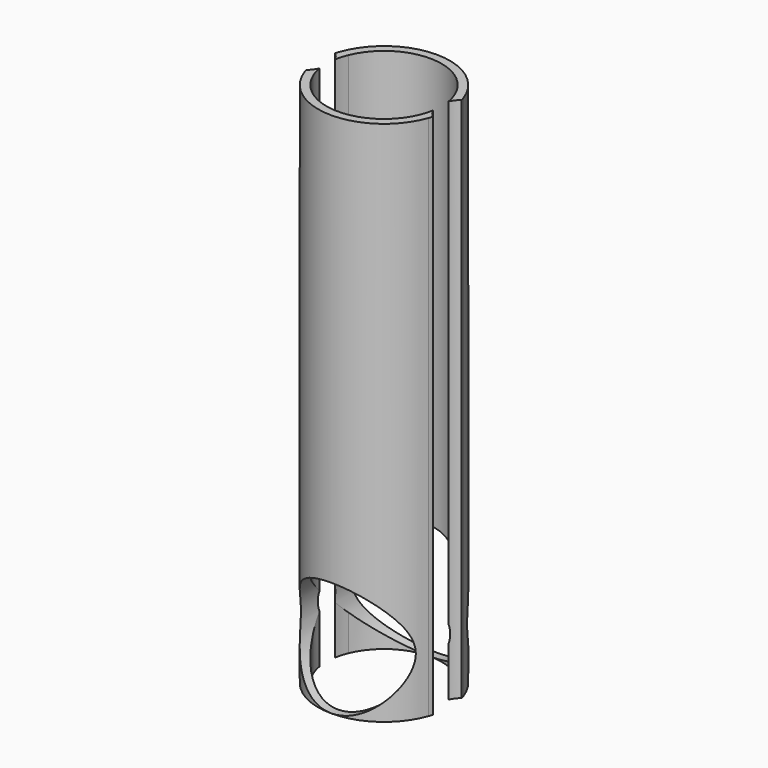
from build123d import *

# Parameters (mm, degrees)
F1_DEPTH = 609.6
F3_R     = 66.548
F4_DEPTH = 154.94
F5_DEPTH = 124.46


with BuildPart() as f1:
    # F0 (on Top) → F1 (new body)
    with BuildSketch(Plane.XY):
        with BuildLine():
            ThreePointArc((61.647349, -25.4), (0, -66.675), (-61.647349, -25.4))
            ThreePointArc((-61.647349, -25.4), (-64.101181, -18.346503), (-65.750812, -11.062835))
            ThreePointArc((-65.750812, -11.062835), (-68.947885, -16.404785), (-73.286413, -20.869634))
            ThreePointArc((-73.286413, -20.869634), (-72.599578, -23.146086), (-71.842049, -25.4))
            ThreePointArc((-71.842049, -25.4), (0, -76.2), (71.842049, -25.4))
            ThreePointArc((71.842049, -25.4), (72.599578, -23.146086), (73.286413, -20.869634))
            ThreePointArc((73.286413, -20.869634), (68.947885, -16.404785), (65.750812, -11.062835))
            ThreePointArc((65.750812, -11.062835), (64.101181, -18.346503), (61.647349, -25.4))
        make_face()
        with BuildLine():
            ThreePointArc((-61.647349, 25.4), (0, 66.675), (61.647349, 25.4))
            ThreePointArc((61.647349, 25.4), (64.101181, 18.346503), (65.750812, 11.062835))
            ThreePointArc((65.750812, 11.062835), (68.947885, 16.404785), (73.286413, 20.869634))
            ThreePointArc((73.286413, 20.869634), (72.599578, 23.146086), (71.842049, 25.4))
            ThreePointArc((71.842049, 25.4), (0, 76.2), (-71.842049, 25.4))
            ThreePointArc((-71.842049, 25.4), (-72.599578, 23.146086), (-73.286413, 20.869634))
            ThreePointArc((-73.286413, 20.869634), (-68.947885, 16.404785), (-65.750812, 11.062835))
            ThreePointArc((-65.750812, 11.062835), (-64.101181, 18.346503), (-61.647349, 25.4))
        make_face()
    extrude(amount=F1_DEPTH)

    # F3 (on Front) → F4 (cut)
    with BuildSketch(Plane.XZ):
        with Locations((0, 66.675)):
            Circle(F3_R)
    extrude(amount=-F4_DEPTH, mode=Mode.SUBTRACT)

    # F3 (on Front) → F5 (cut)
    with BuildSketch(Plane.XZ):
        with Locations((0, 66.675)):
            Circle(F3_R)
    extrude(amount=F5_DEPTH, mode=Mode.SUBTRACT)


solid = f1.part
